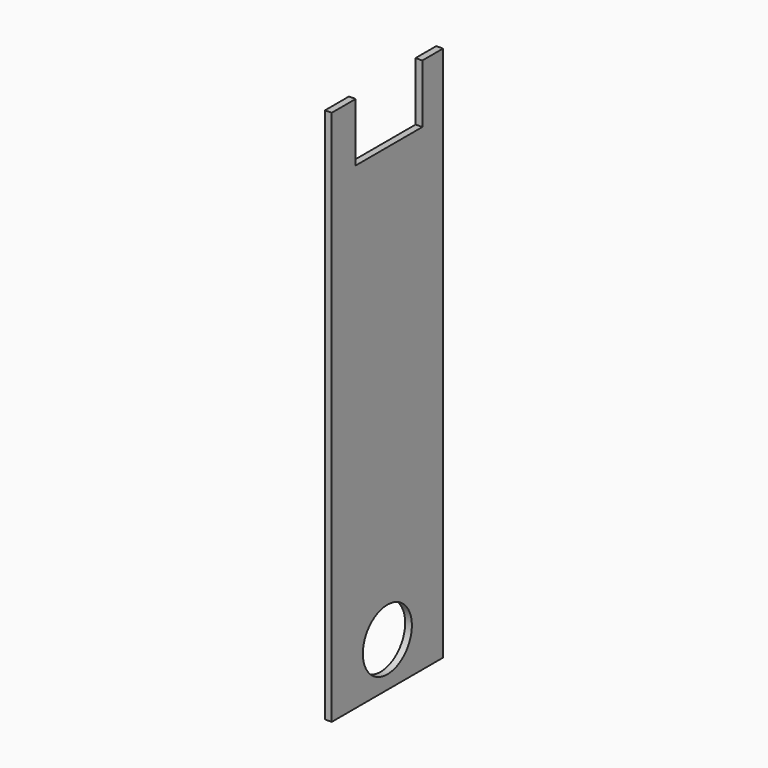
from build123d import *

# Parameters (mm, degrees)
F0_W      = 50.4710152745
F0_H      = 52.5459498167
F1_DEPTH  = 128.1304806471
F2_T      = -2.54
F4_DEPTH  = 87.9370719194
F5_DEPTH  = 92.566229403
F6_DEPTH  = 25.4
F7_DEPTH  = 25.4
F8_DEPTH  = 25.4
F9_DEPTH  = 74.4861587882
F10_W     = 31.4560076222
F10_H     = 22.1310183406
F11_DEPTH = 25.4
F12_R     = 11.5820249722
F13_DEPTH = 25.4


with BuildPart() as f1:
    # F0 (on Top) → F1 (new body)
    with BuildSketch(Plane.XY):
        Rectangle(F0_W, F0_H)
    extrude(amount=F1_DEPTH)

    # F2
    f2_openings = [f1.faces().sort_by_distance(p)[0] for p in [
        (0, 0, 128.130481),
    ]]
    offset(amount=F2_T, openings=f2_openings)

    # F3 (on face) → F4 (cut)
    with BuildSketch(Plane.XZ.offset(26.2729749084)):
        with BuildLine():
            add(Edge.make_bspline(
                [(0, 13.7362796813), (7.3372486719, 13.7362796813), (3.6686243359, 97.3400166258), (0, 180.9437535703), (-3.6686243359, 97.3400166258), (-7.3372486719, 13.7362796813), (0, 13.7362796813)],
                knots=[0, 0, 0, 2.0943951024, 2.0943951024, 4.1887902048, 4.1887902048, 6.2831853072, 6.2831853072, 6.2831853072], degree=2, weights=[1, 0.5, 1, 0.5, 1, 0.5, 1]))
        make_face()
    extrude(amount=-F4_DEPTH, mode=Mode.SUBTRACT)

    # F5 (cut): a face of the model
    f5_faces = [f1.faces().sort_by_distance(p)[0] for p in [
        (0, 23.7329749084, 126.7950663606),
    ]]
    extrude(f5_faces, amount=F5_DEPTH, mode=Mode.SUBTRACT)

    # F6 (cut): a face of the model
    f6_faces = [f1.faces().sort_by_distance(p)[0] for p in [
        (0, 23.7329749084, 126.7950663606),
    ]]
    extrude(f6_faces, amount=-F6_DEPTH, mode=Mode.SUBTRACT)

    # F7 (cut): a face of the model
    f7_faces = [f1.faces().sort_by_distance(p)[0] for p in [
        (0, 0, 2.54),
    ]]
    extrude(f7_faces, amount=-F7_DEPTH, mode=Mode.SUBTRACT)

    # F8 (cut): a face of the model
    f8_faces = [f1.faces().sort_by_distance(p)[0] for p in [
        (-22.6955076373, 0, 64.0652403235),
    ]]
    extrude(f8_faces, amount=-F8_DEPTH, mode=Mode.SUBTRACT)

    # F9 (add): a face of the model
    f9_faces = [f1.faces().sort_by_distance(p)[0] for p in [
        (23.9655076373, 0, 128.1304806471),
    ]]
    extrude(f9_faces, amount=F9_DEPTH)

    # F10 (on face) → F11 (cut)
    with BuildSketch(Plane(origin=(22.6955076373, 0, 0), x_dir=(0, -1, 0), z_dir=(-1, 0, 0))):
        with Locations((-0.7681553252, 191.551130265)):
            Rectangle(F10_W, F10_H)
    extrude(amount=-F11_DEPTH, mode=Mode.SUBTRACT)

    # F12 (on face) → F13 (cut)
    with BuildSketch(Plane(origin=(22.6955076373, 0, 0), x_dir=(0, -1, 0), z_dir=(-1, 0, 0))):
        with Locations((0, 16.72661677)):
            Circle(F12_R)
    extrude(amount=-F13_DEPTH, mode=Mode.SUBTRACT)


solid = f1.part
